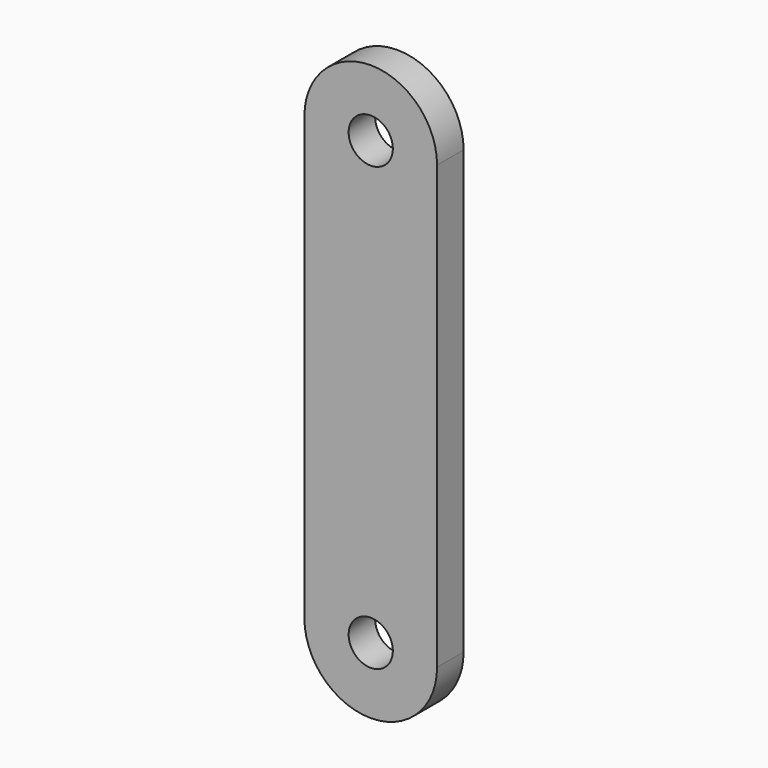
from build123d import *

# Parameters (mm, degrees)
F1_DEPTH = 3


with BuildPart() as f1:
    # F0 (on Front) → F1 (new body)
    with BuildSketch(Plane.XZ):
        with BuildLine():
            Line((2, 0), (6, 0))
            ThreePointArc((6, 0), (0, 6), (-6, 0))
            Line((-6, 0), (-2, 0))
            ThreePointArc((-2, 0), (0, 2), (2, 0))
        make_face()
        with BuildLine():
            Line((6, -40), (6, 0))
            ThreePointArc((6, 0), (0, -6), (-6, 0))
            Line((-6, 0), (-6, -40))
            ThreePointArc((-6, -40), (0, -34), (6, -40))
        make_face()
        with BuildLine():
            ThreePointArc((-6, 0), (0, -6), (6, 0))
            Line((6, 0), (2, 0))
            ThreePointArc((2, 0), (0, -2), (-2, 0))
            Line((-2, 0), (-6, 0))
        make_face()
        with BuildLine():
            Line((2, -40), (6, -40))
            ThreePointArc((6, -40), (0, -34), (-6, -40))
            Line((-6, -40), (-2, -40))
            ThreePointArc((-2, -40), (0, -38), (2, -40))
        make_face()
        with BuildLine():
            ThreePointArc((-6, -40), (0, -46), (6, -40))
            Line((6, -40), (2, -40))
            ThreePointArc((2, -40), (0, -42), (-2, -40))
            Line((-2, -40), (-6, -40))
        make_face()
    extrude(amount=F1_DEPTH)


solid = f1.part
